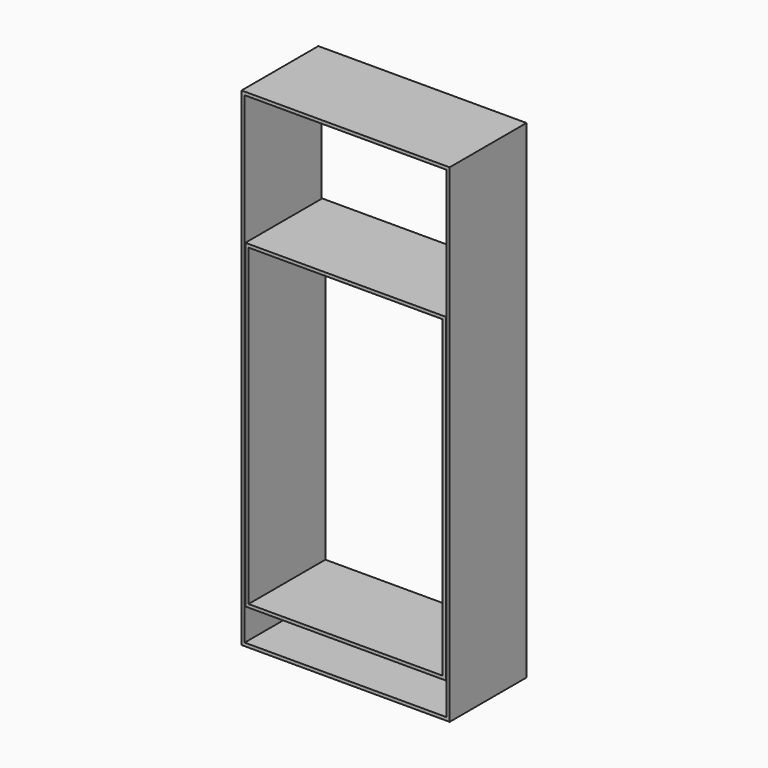
from build123d import *

# Parameters (mm, degrees)
F0_W     = 650
F0_H     = 1525
F0_W_2   = 630
F0_H_2   = 1505
F1_DEPTH = 300
F2_W     = 626
F2_H     = 1000
F2_W_2   = 606
F2_H_2   = 980
F3_DEPTH = 300


with BuildPart() as f1:
    # F0 (on Front) → F1 (new body)
    with BuildSketch(Plane.XZ):
        Rectangle(F0_W, F0_H)
        Rectangle(F0_W_2, F0_H_2, mode=Mode.SUBTRACT)
    extrude(amount=F1_DEPTH)


with BuildPart() as f3:
    # F2 (on Front) → F3 (new body, through all)
    with BuildSketch(Plane.XZ):
        with Locations((0, -152.5)):
            Rectangle(F2_W, F2_H)
        with Locations((0, -152.5)):
            Rectangle(F2_W_2, F2_H_2, mode=Mode.SUBTRACT)
    extrude(amount=F3_DEPTH)


solid = Compound([f1.part, f3.part])
